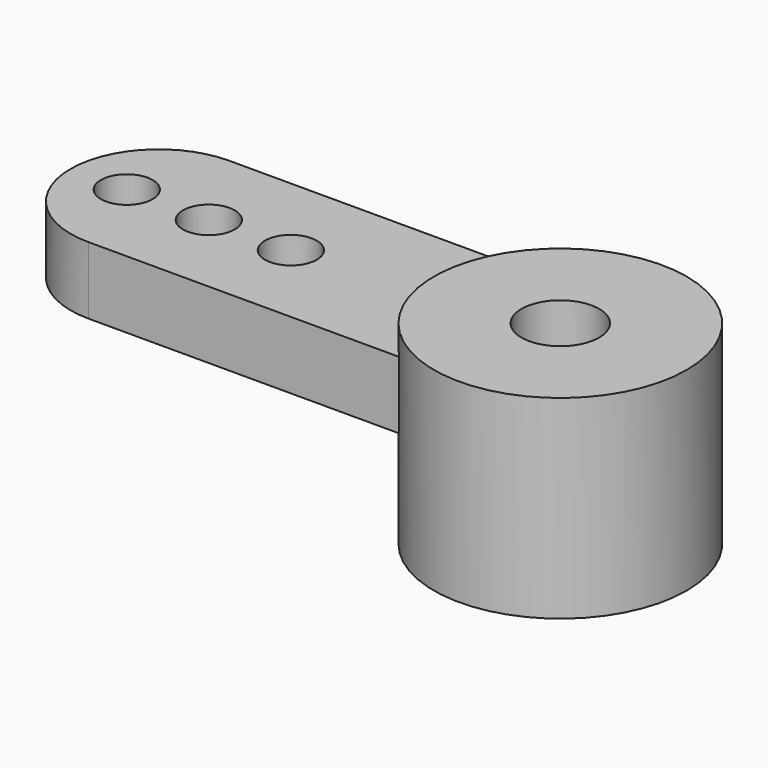
from build123d import *

# Parameters (mm, degrees)
F0_R      = 2.44
F1_DEPTH  = 3.75
F2_R      = 1.625
F3_DEPTH  = 2
F6_DEPTH  = 1.3
F7_R      = 0.75
F8_DEPTH  = 25
F9_R      = 0.5
F10_DEPTH = 1.3


with BuildPart() as f1:
    # F0 (on Top) → F1 (new body)
    with BuildSketch(Plane.XY):
        Circle(F0_R)
    extrude(amount=F1_DEPTH)

    # F2 (on face) → F3 (cut)
    with BuildSketch(Plane(origin=(0, 0, 0), x_dir=(1, 0, 0), z_dir=(0, 0, -1))):
        Circle(F2_R)
    extrude(amount=-F3_DEPTH, mode=Mode.SUBTRACT)

    # F5 (on offset) → F6 (join)
    with BuildSketch(Plane(origin=(0, 0, 2), x_dir=(1, 0, 0), z_dir=(0, 0, -1))):
        with BuildLine():
            Line((-7.750314, -1.7), (-1.750314, -1.7))
            Line((-1.750314, -1.7), (-1.750314, 1.7))
            Line((-1.750314, 1.7), (-7.750314, 1.7))
            ThreePointArc((-7.750314, 1.7), (-9.450314, 0), (-7.750314, -1.7))
        make_face()
    extrude(amount=-F6_DEPTH)

    # F7 (on face) → F8 (cut)
    with BuildSketch(Plane.XY.offset(3.75)):
        Circle(F7_R)
    extrude(amount=-F8_DEPTH, mode=Mode.SUBTRACT)

    # F9 (on face) → F10 (cut, through all)
    with BuildSketch(Plane.XY.offset(3.3)):
        with Locations((-8.366981, 0)):
            Circle(F9_R)
        with Locations((-6.783648, 0)):
            Circle(F9_R)
        with Locations((-5.200314, 0)):
            Circle(F9_R)
    extrude(amount=-F10_DEPTH, mode=Mode.SUBTRACT)


solid = f1.part
